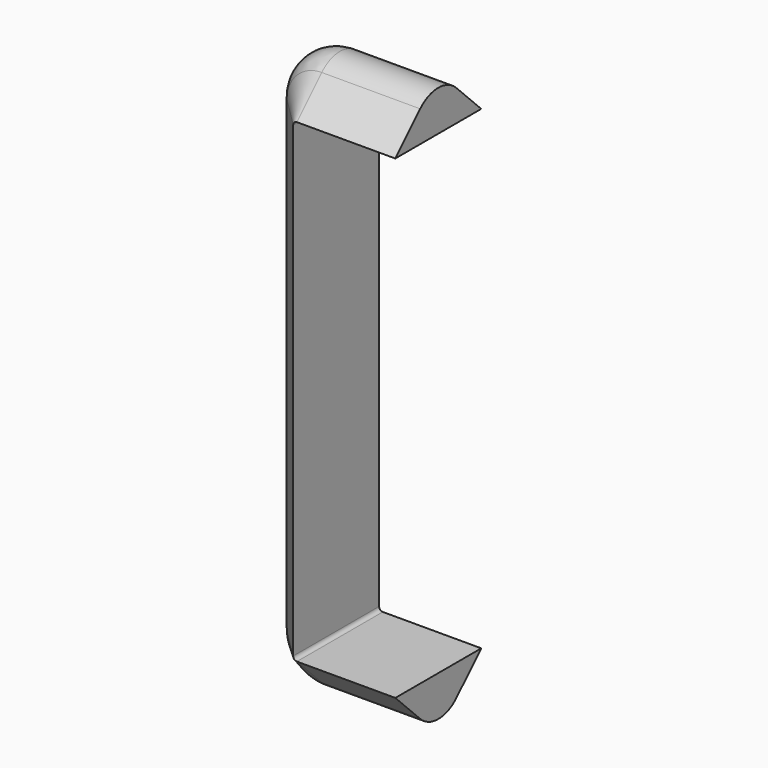
from build123d import *

# Parameters (mm, degrees)
FILLET003_R = 2.6


with BuildPart() as railfillet:
    # Sweep: sweep along a path in Sketch002
    with BuildLine(Plane.XZ) as sweep_path:
        Line((6.5, 0), (6.5, 19))
        ThreePointArc((6.5, 19), (7.671582, 21.828411), (10.5, 22.999974))
        Line((10.5, 22.999974), (18.5, 22.999974))
    # Sketch011 → Sweep (sweep)
    with BuildSketch(Plane.XY):
        Polygon((10.2, 4.366273), (5.833727, 0), (10.2, -4.366273), align=None)
    sweep(path=sweep_path.line)

    # Fillet003
    fillet003_edges = [railfillet.edges().sort_by_distance(p)[0] for p in [
        (14.499996, -1.3e-05, 23.66626),
    ]]
    fillet(fillet003_edges, radius=FILLET003_R)


with BuildPart() as guide:
    # Part__Mirroring: instance of RailFillet
    add(railfillet.part.mirror(Plane(origin=(0, 0, 0), x_dir=(0, 1, 0), z_dir=(0, 0, 1))))

    # Fusion001: union RailFillet
    add(railfillet.part)


solid = guide.part
